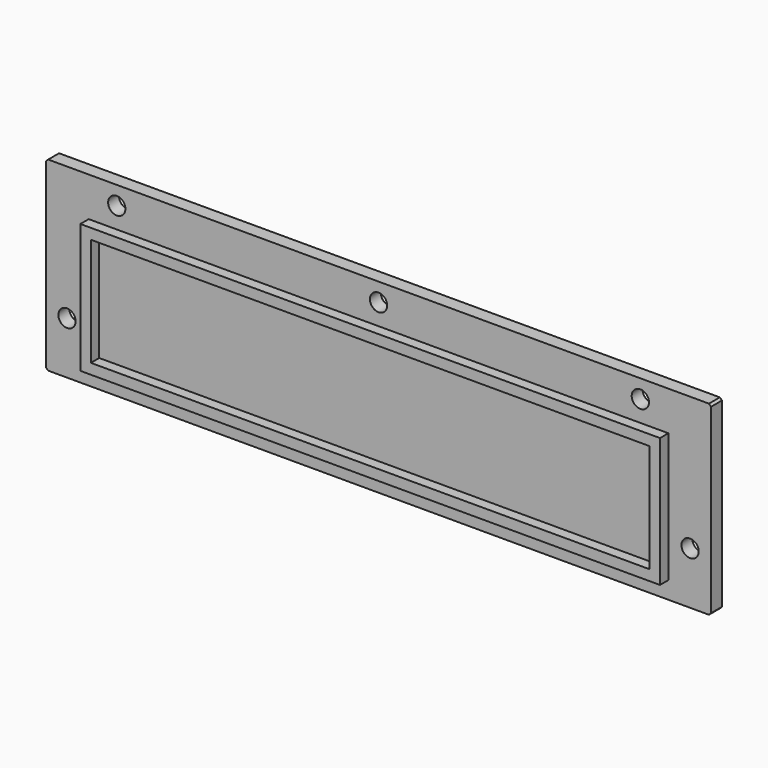
from build123d import *

# Parameters (mm, degrees)
SKETCH019_W     = 127
SKETCH019_H     = 35.5
PAD006_DEPTH    = 3
SKETCH020_R     = 1.65
POCKET014_DEPTH = 5
CHAMFER_SIZE    = 0.4
SKETCH024_W     = 110.7
SKETCH024_H     = 24.7
SKETCH024_W_2   = 106.7
SKETCH024_H_2   = 20.7
PAD007_DEPTH    = 2
CHAMFER009_SIZE = 0.4


with BuildPart() as part:
    # Sketch019 → Pad006 (new body)
    with BuildSketch(Plane.XZ):
        with Locations((0, -10.25)):
            Rectangle(SKETCH019_W, SKETCH019_H)
    extrude(amount=-PAD006_DEPTH)

    # Sketch020 (on Face6 of Pad006) → Pocket014 (cut)
    with BuildSketch(Plane(origin=(0, 3, 0), x_dir=(1, 0, 0), z_dir=(0, 1, 0))):
        with Locations((-59.5, 18)):
            Circle(SKETCH020_R)
        with Locations((59.5, 18)):
            Circle(SKETCH020_R)
        with Locations((-50, -4)):
            Circle(SKETCH020_R)
        with Locations((0, -4)):
            Circle(SKETCH020_R)
        with Locations((50, -4)):
            Circle(SKETCH020_R)
    extrude(amount=-POCKET014_DEPTH, mode=Mode.SUBTRACT)

    # Chamfer
    chamfer_edges = [part.edges().sort_by_distance(p)[0] for p in [
        (63.5, 1.5, -28),
        (-63.5, 1.5, -28),
        (-63.5, 1.5, 7.5),
        (63.5, 1.5, 7.5),
    ]]
    chamfer(chamfer_edges, length=CHAMFER_SIZE)

    # Sketch024 (on Face2 of Chamfer) → Pad007 (join)
    with BuildSketch(Plane.XZ):
        with Locations((0, -12.35)):
            Rectangle(SKETCH024_W, SKETCH024_H)
        with Locations((0, -12.35)):
            Rectangle(SKETCH024_W_2, SKETCH024_H_2, mode=Mode.SUBTRACT)
    extrude(amount=PAD007_DEPTH)


with BuildPart() as part_1:
    # Body003 placement: moved
    add(part.part.moved(Location((0, 4.5, 0))))

    # Chamfer009
    chamfer009_edges = [part_1.edges().sort_by_distance(p)[0] for p in [
        (0, 7.5, 7.5),
        (-63.3, 7.5, 7.3),
        (63.3, 7.5, 7.3),
        (-63.5, 7.5, -10.25),
        (63.5, 7.5, -10.25),
        (-63.3, 7.5, -27.8),
        (63.3, 7.5, -27.8),
        (0, 7.5, -28),
        (-61.15, 7.5, -18),
        (-51.65, 7.5, 4),
        (-1.65, 7.5, 4),
        (57.85, 7.5, -18),
        (48.35, 7.5, 4),
    ]]
    chamfer(chamfer009_edges, length=CHAMFER009_SIZE)


with BuildPart() as part_2:
    # Chamfer009 placement: moved
    add(part_1.part.moved(Location((0, 17, -17))))


solid = part_2.part
